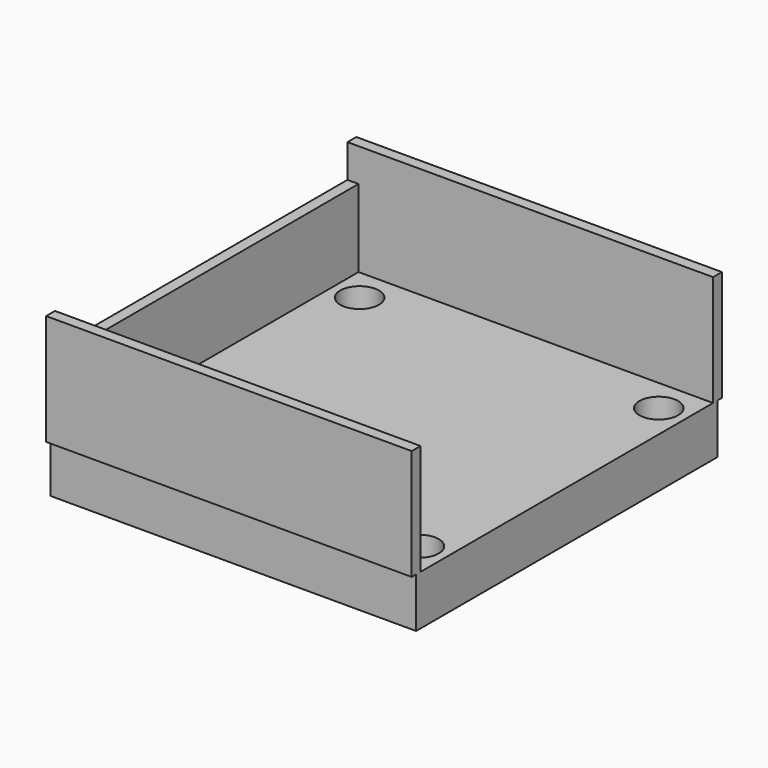
from build123d import *

# Parameters (mm, degrees)
BOX002_W          = 33
BOX002_H          = 1
BOX002_DEPTH      = 10
BOX001_W          = 1
BOX001_H          = 34
BOX001_DEPTH      = 7
BOX003_W          = 33
BOX003_H          = 1
BOX003_DEPTH      = 10
BOX004_W          = 33
BOX004_H          = 1
BOX004_DEPTH      = 10
CYLINDER_R        = 1.75
CYLINDER_DEPTH    = 4.5
CYLINDER001_R     = 1.75
CYLINDER001_DEPTH = 4.5
CYLINDER003_R     = 1.75
CYLINDER003_DEPTH = 4.5
CYLINDER002_R     = 1.75
CYLINDER002_DEPTH = 4.5
BOX_W             = 33
BOX_H             = 34
BOX_DEPTH         = 4.5


with BuildPart() as body006:
    # Box002 → Box002 (join)
    with BuildSketch(Plane(origin=(0, -0.5, 4.5), x_dir=(1, 0, 0), z_dir=(0, 0, 1))):
        with Locations((16.5, 0.5)):
            Rectangle(BOX002_W, BOX002_H)
    extrude(amount=BOX002_DEPTH)


with BuildPart() as body005:
    # Box001 → Box001 (join)
    with BuildSketch(Plane(origin=(0, -0.5, 4.5), x_dir=(1, 0, 0), z_dir=(0, 0, 1))):
        with Locations((0.5, 17)):
            Rectangle(BOX001_W, BOX001_H)
    extrude(amount=BOX001_DEPTH)


with BuildPart() as body007:
    # Box003 → Box003 (join)
    with BuildSketch(Plane(origin=(0, 33.5, 4.5), x_dir=(1, 0, 0), z_dir=(0, 0, 1))):
        with Locations((16.5, 0.5)):
            Rectangle(BOX003_W, BOX003_H)
    extrude(amount=BOX003_DEPTH)


with BuildPart() as body008:
    # Box004 → Box004 (join)
    with BuildSketch(Plane(origin=(0, -0.5, 4.5), x_dir=(1, 0, 0), z_dir=(0, 0, 1))):
        with Locations((16.5, 0.5)):
            Rectangle(BOX004_W, BOX004_H)
    extrude(amount=BOX004_DEPTH)


with BuildPart() as hole3:
    # Cylinder → Cylinder (join)
    with BuildSketch(Plane(origin=(3.5, 3.5, 1), x_dir=(1, 0, 0), z_dir=(0, 0, 1))):
        Circle(CYLINDER_R)
    extrude(amount=CYLINDER_DEPTH)


with BuildPart() as hole1:
    # Cylinder001 → Cylinder001 (join)
    with BuildSketch(Plane(origin=(3.5, 30.5, 1), x_dir=(1, 0, 0), z_dir=(0, 0, 1))):
        Circle(CYLINDER001_R)
    extrude(amount=CYLINDER001_DEPTH)


with BuildPart() as hole2:
    # Cylinder003 → Cylinder003 (join)
    with BuildSketch(Plane(origin=(30.5, 30.5, 1), x_dir=(1, 0, 0), z_dir=(0, 0, 1))):
        Circle(CYLINDER003_R)
    extrude(amount=CYLINDER003_DEPTH)


with BuildPart() as hole4:
    # Cylinder002 → Cylinder002 (join)
    with BuildSketch(Plane(origin=(30.5, 3.5, 1), x_dir=(1, 0, 0), z_dir=(0, 0, 1))):
        Circle(CYLINDER002_R)
    extrude(amount=CYLINDER002_DEPTH)


with BuildPart() as base:
    # Box → Box (join)
    with BuildSketch(Plane.XY):
        with Locations((16.5, 17)):
            Rectangle(BOX_W, BOX_H)
    extrude(amount=BOX_DEPTH)

    # Boolean: union Body006, Body005, Body007, Body008
    add(body006.part)
    add(body005.part)
    add(body007.part)
    add(body008.part)

    # Boolean001: cut hole3, hole1, hole2, hole4
    add(hole3.part, mode=Mode.SUBTRACT)
    add(hole1.part, mode=Mode.SUBTRACT)
    add(hole2.part, mode=Mode.SUBTRACT)
    add(hole4.part, mode=Mode.SUBTRACT)


solid = base.part
